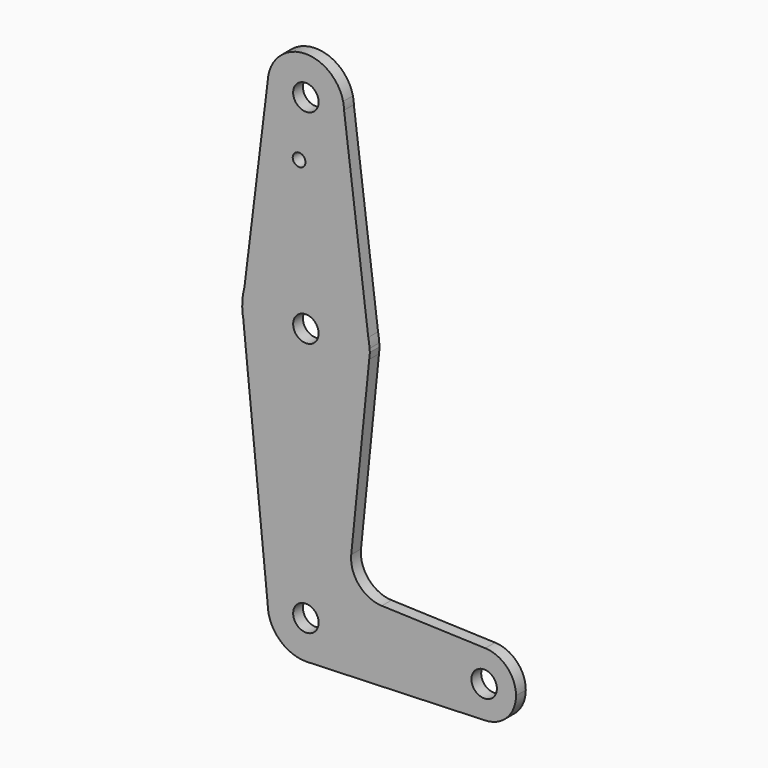
from build123d import *

# Parameters (mm, degrees)
F0_R     = 3.175
F0_R_2   = 1.5875
F1_DEPTH = 3.048


with BuildPart() as f1:
    # F0 (on Front) → F1 (new body)
    with BuildSketch(Plane.XZ):
        with BuildLine():
            Line((-27.4781199441, 68.4938953), (-27.7128089363, 70.3559932727))
            ThreePointArc((-27.7128089363, 70.3559932727), (-37.8053332695, 77.7305512484), (-46.5104825201, 68.7604046902))
            ThreePointArc((-46.5104825201, 68.7604046902), (-37.2601863314, 58.7182424894), (-27.4747269485, 68.2396807164))
            ThreePointArc((-27.4747269485, 68.2396807164), (-27.4755752351, 68.3667993293), (-27.4781199441, 68.4938953))
        make_face()
        with Locations((-36.9997269485, 68.2396807164)):
            Circle(F0_R, mode=Mode.SUBTRACT)
        with BuildLine():
            ThreePointArc((-27.4781199441, 68.4938953), (-27.5494885632, 69.430738843), (-27.7128089363, 70.3559932727))
            Line((-27.7128089363, 70.3559932727), (-27.4781199441, 68.4938953))
        make_face()
        with BuildLine():
            ThreePointArc((-27.4747269485, 68.2396807164), (-37.2601863314, 58.7182424894), (-46.5104825201, 68.7604046902))
            Line((-46.5104825201, 68.7604046902), (-52.3215770386, 21.5937792726))
            ThreePointArc((-52.3215770386, 21.5937792726), (-36.4847650026, 33.3063262092), (-21.4407579627, 20.5915228921))
            Line((-21.4407579627, 20.5915228921), (-27.4781199441, 68.4938953))
            ThreePointArc((-27.4781199441, 68.4938953), (-27.4755752351, 68.3667993293), (-27.4747269485, 68.2396807164))
        make_face()
        with Locations((-38.6906675994, 53.9648807164)):
            Circle(F0_R_2, mode=Mode.SUBTRACT)
        with BuildLine():
            Line((-52.8716820535, 17.1287689215), (-52.3215770386, 21.5937792726))
            ThreePointArc((-52.3215770386, 21.5937792726), (-52.755597283, 19.3808594826), (-52.8716820535, 17.1287689215))
        make_face()
        with BuildLine():
            ThreePointArc((-21.4407579627, 20.5915228921), (-36.4847650026, 33.3063262092), (-52.3215770386, 21.5937792726))
            Line((-52.3215770386, 21.5937792726), (-52.8716820535, 17.1287689215))
            Line((-52.8716820535, 17.1287689215), (-52.6167416526, 14.5893339429))
            ThreePointArc((-52.6167416526, 14.5893339429), (-36.3681191662, 1.5772503664), (-21.2055241678, 15.8400609107))
            ThreePointArc((-21.2055241678, 15.8400609107), (-21.1449391204, 16.6388511912), (-21.1247269485, 17.4396807164))
            ThreePointArc((-21.1247269485, 17.4396807164), (-21.1298633712, 17.8434814572), (-21.1452693155, 18.2470208951))
            Line((-21.1452693155, 18.2470208951), (-21.4407579627, 20.5915228921))
        make_face()
        with Locations((-36.9997269485, 17.4396807164)):
            Circle(F0_R, mode=Mode.SUBTRACT)
        with BuildLine():
            ThreePointArc((-21.1452693155, 18.2470208951), (-21.2493296396, 19.4247775942), (-21.4407579627, 20.5915228921))
            Line((-21.4407579627, 20.5915228921), (-21.1452693155, 18.2470208951))
        make_face()
        with BuildLine():
            Line((-52.6167416526, 14.5893339429), (-52.8716820535, 17.1287689215))
            ThreePointArc((-52.8716820535, 17.1287689215), (-52.7953272034, 15.8539198309), (-52.6167416526, 14.5893339429))
        make_face()
        with BuildLine():
            Line((-21.043516424, 17.4396807164), (-21.1452693155, 18.2470208951))
            ThreePointArc((-21.1452693155, 18.2470208951), (-21.1298633712, 17.8434814572), (-21.1247269485, 17.4396807164))
            ThreePointArc((-21.1247269485, 17.4396807164), (-21.1449391204, 16.6388511912), (-21.2055241678, 15.8400609107))
            Line((-21.2055241678, 15.8400609107), (-21.043516424, 17.4396807164))
        make_face()
        with BuildLine():
            ThreePointArc((-21.2055241678, 15.8400609107), (-36.3681191662, 1.5772503664), (-52.6167416526, 14.5893339429))
            Line((-52.6167416526, 14.5893339429), (-46.5246703381, -46.0931586622))
            ThreePointArc((-46.5246703381, -46.0931586622), (-37.0161466621, -36.5353334362), (-27.4747269485, -46.0603192836))
            ThreePointArc((-27.4747269485, -46.0603192836), (-30.0735781092, -52.5989802517), (-36.4519631177, -55.5695558348))
            Line((-36.4519631177, -55.5695558348), (7.7326783261, -53.9927939265))
            ThreePointArc((7.7326783251, -53.9927938982), (-0.4872269485, -46.0603192831), (7.7326783261, -38.127844669))
            Line((7.7326783261, -38.127844669), (-18.0656241608, -37.2093952506))
            ThreePointArc((-18.0656241608, -37.2093952506), (-23.774753137, -34.4893394531), (-25.6925038018, -28.4631391912))
            Line((-25.6925038018, -28.4631391912), (-21.2055241678, 15.8400609107))
        make_face()
        with BuildLine():
            ThreePointArc((-27.4747269485, -46.0603192836), (-37.0161466621, -36.5353334362), (-46.5246703381, -46.0931586622))
            ThreePointArc((-46.5246703381, -46.0931586622), (-43.676581028, -52.8533484017), (-36.8682722135, -55.5844121356))
            Line((-36.8682722135, -55.5844121356), (-36.4519631177, -55.5695558348))
            ThreePointArc((-36.4519631177, -55.5695558348), (-30.0735781092, -52.5989802517), (-27.4747269485, -46.0603192836))
        make_face()
        with Locations((-36.9997269485, -46.0603192836)):
            Circle(F0_R, mode=Mode.SUBTRACT)
        with BuildLine():
            Line((-36.4519631177, -55.5695558348), (-36.8682722135, -55.5844121356))
            ThreePointArc((-36.8682722135, -55.5844121356), (-36.6600364387, -55.5792601573), (-36.4519631177, -55.5695558348))
        make_face()
        with BuildLine():
            ThreePointArc((15.3877730515, -46.0603192836), (13.1619058355, -40.5484087989), (7.7326783261, -38.127844669))
            ThreePointArc((7.7326783261, -38.127844669), (-0.4872269485, -46.0603192831), (7.7326783251, -53.9927938982))
            ThreePointArc((7.7326783251, -53.9927938982), (13.1619058351, -51.5722297687), (15.3877730515, -46.0603192836))
        make_face()
        with Locations((7.4502730515, -46.0603192836)):
            Circle(F0_R, mode=Mode.SUBTRACT)
    extrude(amount=F1_DEPTH)


solid = f1.part
